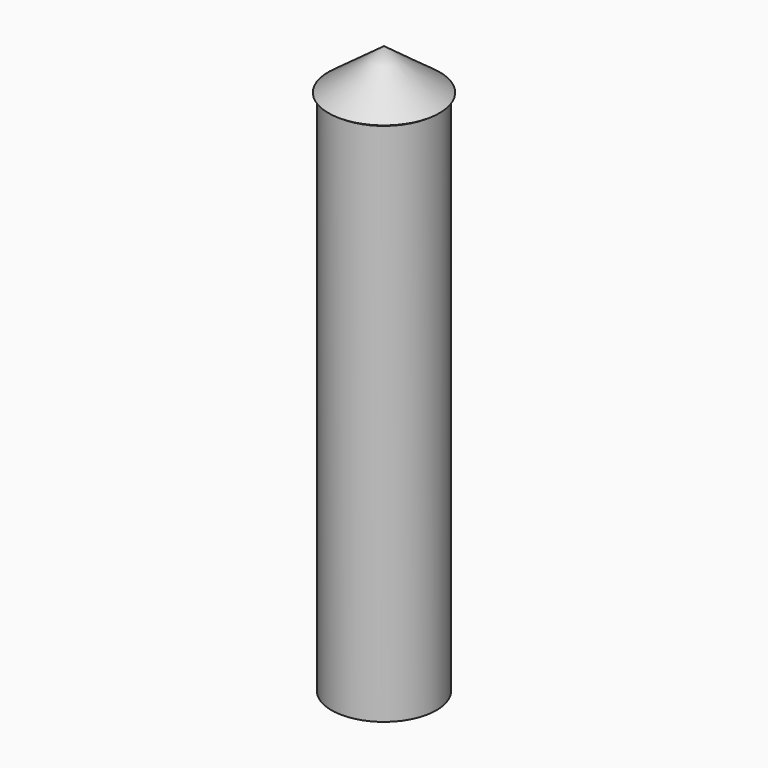
from build123d import *

# Parameters (mm, degrees)
F0_R     = 100
F1_DEPTH = 1000


with BuildPart() as f1:
    # F0 (on Top) → F1 (new body)
    with BuildSketch(Plane.XY):
        Circle(F0_R)
    extrude(amount=F1_DEPTH)


with BuildPart() as f3:
    # F2 (on Right) → F3 (revolve)
    with BuildSketch(Plane.YZ):
        Polygon((-105.959684, 1004.040599), (0, 1004.040599), (0, 1081.983685), align=None)
    revolve(axis=Axis((0, 0, 1043.012142), (0, 0, 1)))


solid = Compound([f1.part, f3.part])
